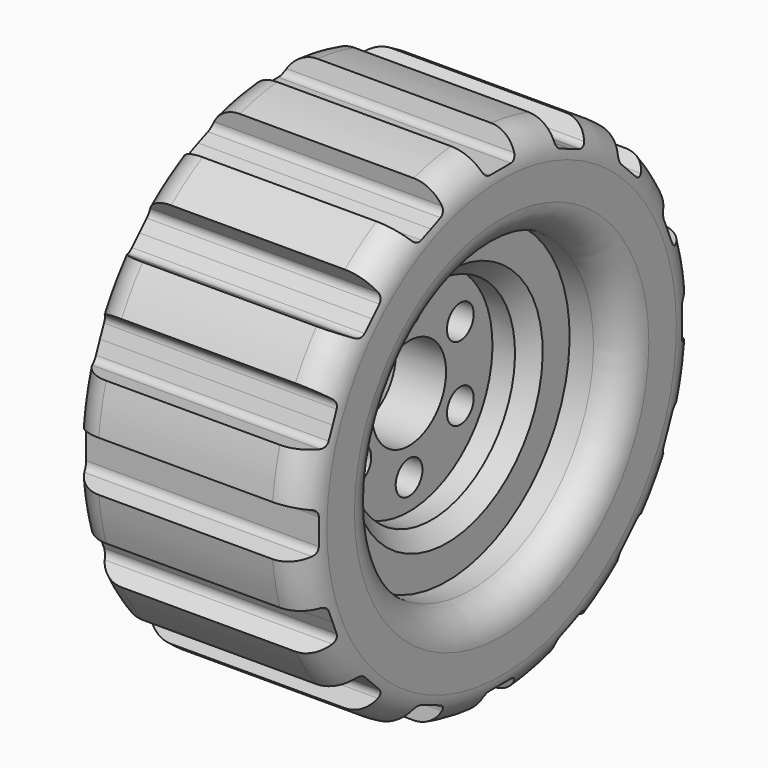
from build123d import *

# Parameters (mm, degrees)
F2_R     = 5.08
F3_R     = 5.08
F4_SIZE  = 2.54
F5_SIZE  = 2.54
F7_DEPTH = 25.4
F8_R     = 2.764844
F9_DEPTH = 25.4


with BuildPart() as f1:
    # F0 (on Front) → F1 (revolve)
    with BuildSketch(Plane.XZ):
        Polygon((19.449437, 41.203309), (0, 41.203309), (-19.449437, 41.203309), (-19.449437, 25.34879), (-10.416048, 25.34879), (-10.416048, 17.237177), (-4.147984, 17.237177), (-4.147984, 7.650726), (0, 7.650726), (4.147984, 7.650726), (4.147984, 17.237177), (10.416048, 17.237177), (10.416048, 25.34879), (19.449437, 25.34879), align=None)
    revolve(axis=Axis((1.659192, 0, 0), (1, 0, 0)))

    # F2
    f2_edges = [f1.edges().sort_by_distance(p)[0] for p in [
        (-19.449437, 0, -41.203309),
        (-19.449437, 0, -25.34879),
    ]]
    fillet(f2_edges, radius=F2_R)

    # F3
    f3_edges = [f1.edges().sort_by_distance(p)[0] for p in [
        (19.449437, 0, -41.203309),
        (19.449437, 0, -25.34879),
    ]]
    fillet(f3_edges, radius=F3_R)

    # F4
    f4_edges = [f1.edges().sort_by_distance(p)[0] for p in [
        (-10.416048, 0, -17.237177),
    ]]
    chamfer(f4_edges, length=F4_SIZE)

    # F5
    f5_edges = [f1.edges().sort_by_distance(p)[0] for p in [
        (10.416048, 0, -17.237177),
    ]]
    chamfer(f5_edges, length=F5_SIZE)

    # F6 (on Right) → F7 (cut, symmetric)
    with BuildSketch(Plane.YZ):
        with BuildLine():
            Line((29.556883, 24.779749), (32.781429, 26.507185))
            Line((32.781429, 26.507185), (26.507185, 32.781429))
            Line((26.507185, 32.781429), (24.779749, 29.556883))
            ThreePointArc((24.779749, 29.556883), (24.642887, 28.771402), (25.001203, 28.059136))
            Line((25.001203, 28.059136), (26.530169, 26.530169))
            Line((26.530169, 26.530169), (28.059136, 25.001203))
            ThreePointArc((28.059136, 25.001203), (28.771402, 24.642887), (29.556883, 24.779749))
        make_face()
        with BuildLine():
            Line((17.8242, 34.204432), (20.142231, 37.034355))
            Line((20.142231, 37.034355), (11.944536, 40.429951))
            Line((11.944536, 40.429951), (11.582573, 36.789799))
            ThreePointArc((11.582573, 36.789799), (11.75672, 36.011734), (12.360333, 35.490807))
            Line((12.360333, 35.490807), (14.358024, 34.663337))
            Line((14.358024, 34.663337), (16.355715, 33.835866))
            ThreePointArc((16.355715, 33.835866), (17.150884, 33.777398), (17.8242, 34.204432))
        make_face()
        with BuildLine():
            Line((3.377944, 38.421801), (4.43656, 41.923381))
            Line((4.43656, 41.923381), (-4.43656, 41.923381))
            Line((-4.43656, 41.923381), (-3.377944, 38.421801))
            ThreePointArc((-3.377944, 38.421801), (-2.919301, 37.769606), (-2.162285, 37.519325))
            Line((-2.162285, 37.519325), (0, 37.519325))
            Line((0, 37.519325), (2.162285, 37.519325))
            ThreePointArc((2.162285, 37.519325), (2.919301, 37.769606), (3.377944, 38.421801))
        make_face()
        with BuildLine():
            Line((36.789799, 11.582573), (40.429951, 11.944536))
            Line((40.429951, 11.944536), (37.034355, 20.142231))
            Line((37.034355, 20.142231), (34.204432, 17.8242))
            ThreePointArc((34.204432, 17.8242), (33.777398, 17.150884), (33.835866, 16.355715))
            Line((33.835866, 16.355715), (34.663337, 14.358024))
            Line((34.663337, 14.358024), (35.490807, 12.360333))
            ThreePointArc((35.490807, 12.360333), (36.011734, 11.75672), (36.789799, 11.582573))
        make_face()
        with BuildLine():
            Line((38.421801, -3.377944), (41.923381, -4.43656))
            Line((41.923381, -4.43656), (41.923381, 4.43656))
            Line((41.923381, 4.43656), (38.421801, 3.377944))
            ThreePointArc((38.421801, 3.377944), (37.769606, 2.919301), (37.519325, 2.162285))
            Line((37.519325, 2.162285), (37.519325, 0))
            Line((37.519325, 0), (37.519325, -2.162285))
            ThreePointArc((37.519325, -2.162285), (37.769606, -2.919301), (38.421801, -3.377944))
        make_face()
        with BuildLine():
            Line((34.204432, -17.8242), (37.034355, -20.142231))
            Line((37.034355, -20.142231), (40.429951, -11.944536))
            Line((40.429951, -11.944536), (36.789799, -11.582573))
            ThreePointArc((36.789799, -11.582573), (36.011734, -11.75672), (35.490807, -12.360333))
            Line((35.490807, -12.360333), (34.663337, -14.358024))
            Line((34.663337, -14.358024), (33.835866, -16.355715))
            ThreePointArc((33.835866, -16.355715), (33.777398, -17.150884), (34.204432, -17.8242))
        make_face()
        with BuildLine():
            Line((24.779749, -29.556883), (26.507185, -32.781429))
            Line((26.507185, -32.781429), (32.781429, -26.507185))
            Line((32.781429, -26.507185), (29.556883, -24.779749))
            ThreePointArc((29.556883, -24.779749), (28.771402, -24.642887), (28.059136, -25.001203))
            Line((28.059136, -25.001203), (26.530169, -26.530169))
            Line((26.530169, -26.530169), (25.001203, -28.059136))
            ThreePointArc((25.001203, -28.059136), (24.642887, -28.771402), (24.779749, -29.556883))
        make_face()
        with BuildLine():
            Line((11.582573, -36.789799), (11.944536, -40.429951))
            Line((11.944536, -40.429951), (20.142231, -37.034355))
            Line((20.142231, -37.034355), (17.8242, -34.204432))
            ThreePointArc((17.8242, -34.204432), (17.150884, -33.777398), (16.355715, -33.835866))
            Line((16.355715, -33.835866), (14.358024, -34.663337))
            Line((14.358024, -34.663337), (12.360333, -35.490807))
            ThreePointArc((12.360333, -35.490807), (11.75672, -36.011734), (11.582573, -36.789799))
        make_face()
        with BuildLine():
            Line((-3.377944, -38.421801), (-4.43656, -41.923381))
            Line((-4.43656, -41.923381), (4.43656, -41.923381))
            Line((4.43656, -41.923381), (3.377944, -38.421801))
            ThreePointArc((3.377944, -38.421801), (2.919301, -37.769606), (2.162285, -37.519325))
            Line((2.162285, -37.519325), (0, -37.519325))
            Line((0, -37.519325), (-2.162285, -37.519325))
            ThreePointArc((-2.162285, -37.519325), (-2.919301, -37.769606), (-3.377944, -38.421801))
        make_face()
        with BuildLine():
            Line((-17.8242, -34.204432), (-20.142231, -37.034355))
            Line((-20.142231, -37.034355), (-11.944536, -40.429951))
            Line((-11.944536, -40.429951), (-11.582573, -36.789799))
            ThreePointArc((-11.582573, -36.789799), (-11.75672, -36.011734), (-12.360333, -35.490807))
            Line((-12.360333, -35.490807), (-14.358024, -34.663337))
            Line((-14.358024, -34.663337), (-16.355715, -33.835866))
            ThreePointArc((-16.355715, -33.835866), (-17.150884, -33.777398), (-17.8242, -34.204432))
        make_face()
        with BuildLine():
            Line((-29.556883, -24.779749), (-32.781429, -26.507185))
            Line((-32.781429, -26.507185), (-26.507185, -32.781429))
            Line((-26.507185, -32.781429), (-24.779749, -29.556883))
            ThreePointArc((-24.779749, -29.556883), (-24.642887, -28.771402), (-25.001203, -28.059136))
            Line((-25.001203, -28.059136), (-26.530169, -26.530169))
            Line((-26.530169, -26.530169), (-28.059136, -25.001203))
            ThreePointArc((-28.059136, -25.001203), (-28.771402, -24.642887), (-29.556883, -24.779749))
        make_face()
        with BuildLine():
            Line((-36.789799, -11.582573), (-40.429951, -11.944536))
            Line((-40.429951, -11.944536), (-37.034355, -20.142231))
            Line((-37.034355, -20.142231), (-34.204432, -17.8242))
            ThreePointArc((-34.204432, -17.8242), (-33.777398, -17.150884), (-33.835866, -16.355715))
            Line((-33.835866, -16.355715), (-34.663337, -14.358024))
            Line((-34.663337, -14.358024), (-35.490807, -12.360333))
            ThreePointArc((-35.490807, -12.360333), (-36.011734, -11.75672), (-36.789799, -11.582573))
        make_face()
        with BuildLine():
            Line((-38.421801, 3.377944), (-41.923381, 4.43656))
            Line((-41.923381, 4.43656), (-41.923381, -4.43656))
            Line((-41.923381, -4.43656), (-38.421801, -3.377944))
            ThreePointArc((-38.421801, -3.377944), (-37.769606, -2.919301), (-37.519325, -2.162285))
            Line((-37.519325, -2.162285), (-37.519325, 0))
            Line((-37.519325, 0), (-37.519325, 2.162285))
            ThreePointArc((-37.519325, 2.162285), (-37.769606, 2.919301), (-38.421801, 3.377944))
        make_face()
        with BuildLine():
            Line((-34.204432, 17.8242), (-37.034355, 20.142231))
            Line((-37.034355, 20.142231), (-40.429951, 11.944536))
            Line((-40.429951, 11.944536), (-36.789799, 11.582573))
            ThreePointArc((-36.789799, 11.582573), (-36.011734, 11.75672), (-35.490807, 12.360333))
            Line((-35.490807, 12.360333), (-34.663337, 14.358024))
            Line((-34.663337, 14.358024), (-33.835866, 16.355715))
            ThreePointArc((-33.835866, 16.355715), (-33.777398, 17.150884), (-34.204432, 17.8242))
        make_face()
        with BuildLine():
            Line((-24.779749, 29.556883), (-26.507185, 32.781429))
            Line((-26.507185, 32.781429), (-32.781429, 26.507185))
            Line((-32.781429, 26.507185), (-29.556883, 24.779749))
            ThreePointArc((-29.556883, 24.779749), (-28.771402, 24.642887), (-28.059136, 25.001203))
            Line((-28.059136, 25.001203), (-26.530169, 26.530169))
            Line((-26.530169, 26.530169), (-25.001203, 28.059136))
            ThreePointArc((-25.001203, 28.059136), (-24.642887, 28.771402), (-24.779749, 29.556883))
        make_face()
        with BuildLine():
            Line((-11.582573, 36.789799), (-11.944536, 40.429951))
            Line((-11.944536, 40.429951), (-20.142231, 37.034355))
            Line((-20.142231, 37.034355), (-17.8242, 34.204432))
            ThreePointArc((-17.8242, 34.204432), (-17.150884, 33.777398), (-16.355715, 33.835866))
            Line((-16.355715, 33.835866), (-14.358024, 34.663337))
            Line((-14.358024, 34.663337), (-12.360333, 35.490807))
            ThreePointArc((-12.360333, 35.490807), (-11.75672, 36.011734), (-11.582573, 36.789799))
        make_face()
    extrude(amount=F7_DEPTH, both=True, mode=Mode.SUBTRACT)

    # F8 (on face) → F9 (cut, symmetric)
    with BuildSketch(Plane.YZ.offset(4.147984)):
        with Locations((-10.593082, -6.115919)):
            Circle(F8_R)
        with Locations((-10.593082, 6.115919)):
            Circle(F8_R)
        with Locations((0, 12.231837)):
            Circle(F8_R)
        with Locations((10.593082, 6.115919)):
            Circle(F8_R)
        with Locations((10.593082, -6.115919)):
            Circle(F8_R)
        with Locations((0, -12.231837)):
            Circle(F8_R)
    extrude(amount=F9_DEPTH, both=True, mode=Mode.SUBTRACT)


solid = f1.part
